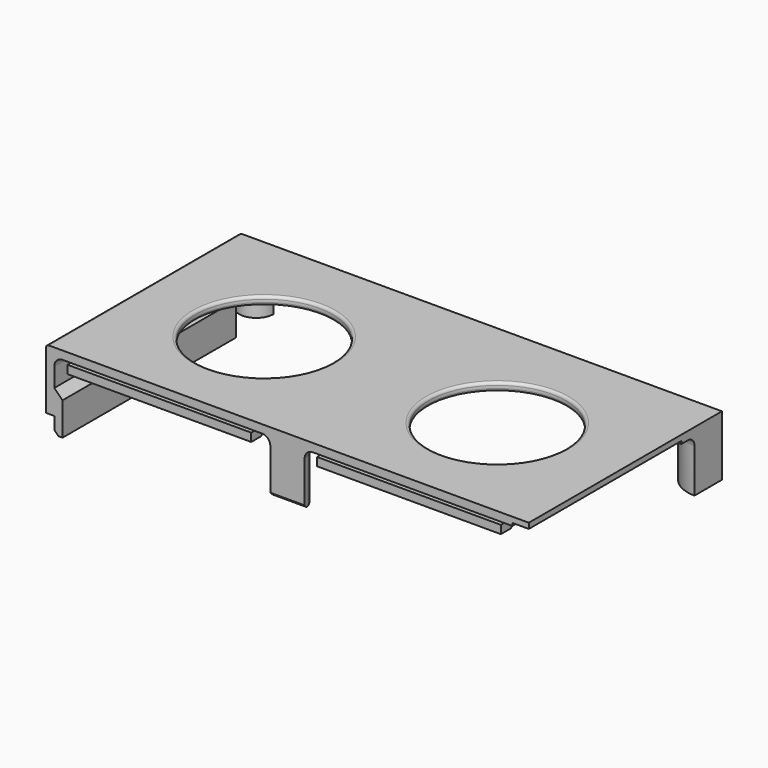
from build123d import *

# Parameters (mm, degrees)
SKETCH028_W          = 88
SKETCH028_H          = 3
PAD012_DEPTH         = 176
SKETCH029_R          = 25
POCKET015_DEPTH      = 100
POCKET015_DEPTH_BACK = 100
PAD014_DEPTH         = 19
SKETCH032_W          = 139
SKETCH032_H          = 6
SKETCH032_W_2        = 6
SKETCH032_H_2        = 69.5
POCKET016_DEPTH      = 20
SKETCH043_W          = 3
SKETCH043_H          = 88
PAD019_DEPTH         = 19
SKETCH044_W          = 3
SKETCH044_H          = 79
PAD020_DEPTH         = 6
PAD020_DEPTH_BACK    = 6
CHAMFER007_SIZE      = 2.99
CHAMFER008_SIZE      = 1.5
FILLET012_R          = 3
FILLET013_R          = 1
SKETCH086_W          = 67
SKETCH086_H          = 4.5
PAD037_DEPTH         = 3
CHAMFER011_SIZE      = 2.99
CHAMFER013_SIZE      = 1


with BuildPart() as part:
    # Sketch028 → Pad012 (new body)
    with BuildSketch(Plane.YZ):
        with Locations((-44, 20.5)):
            Rectangle(SKETCH028_W, SKETCH028_H)
    extrude(amount=-PAD012_DEPTH)

    # Sketch029 → Pocket015 (cut, two sides)
    with BuildSketch(Plane.XY) as pocket015_sk:
        with Locations((-130.5, -45.5)):
            Circle(SKETCH029_R)
        with Locations((-45.5, -45.5)):
            Circle(SKETCH029_R)
    extrude(amount=-POCKET015_DEPTH, mode=Mode.SUBTRACT)
    extrude(pocket015_sk.sketch, amount=POCKET015_DEPTH_BACK, mode=Mode.SUBTRACT)

    # Sketch031 → Pad014 (join)
    with BuildSketch(Plane.XY):
        with BuildLine():
            ThreePointArc((-12.5, 0), (-8.838835, -8.838835), (0, -12.5))
            Line((0, 0), (0, -12.5))
            Line((-12.5, 0), (0, 0))
        make_face()
        with BuildLine():
            ThreePointArc((-176, 0), (-169.75, -6.25), (-163.5, 0))
            Line((-176, 0), (-163.5, 0))
        make_face()
        with BuildLine():
            ThreePointArc((-81.75, -88), (-88, -81.75), (-94.25, -88))
            Line((-94.25, -88), (-81.75, -88))
        make_face()
    extrude(amount=PAD014_DEPTH)

    # Sketch032 → Pocket016 (cut)
    with BuildSketch(Plane.XY):
        with Locations((-88, -3)):
            Rectangle(SKETCH032_W, SKETCH032_H)
        with Locations((-3, -53.25)):
            Rectangle(SKETCH032_W_2, SKETCH032_H_2)
    extrude(amount=POCKET016_DEPTH, mode=Mode.SUBTRACT)

    # Sketch043 → Pad019 (join)
    with BuildSketch(Plane.XY):
        with Locations((-174.5, -44)):
            Rectangle(SKETCH043_W, SKETCH043_H)
    extrude(amount=PAD019_DEPTH)

    # Sketch044 → Pad020 (join, two sides)
    with BuildSketch(Plane.XY) as pad020_sk:
        with Locations((-171.5, -48.5)):
            Rectangle(SKETCH044_W, SKETCH044_H)
    extrude(amount=PAD020_DEPTH)
    extrude(pad020_sk.sketch, amount=-PAD020_DEPTH_BACK)

    # Chamfer007
    chamfer007_edges = [part.edges().sort_by_distance(p)[0] for p in [
        (-173, -48.5, 6),
    ]]
    chamfer(chamfer007_edges, length=CHAMFER007_SIZE)

    # Chamfer008
    chamfer008_edges = [part.edges().sort_by_distance(p)[0] for p in [
        (-173, -48.5, -6),
    ]]
    chamfer(chamfer008_edges, length=CHAMFER008_SIZE)

    # Fillet012
    fillet012_edges = [part.edges().sort_by_distance(p)[0] for p in [
        (-166.688138, -5.448624, 19),
        (-88, -81.75, 19),
        (-8.838835, -8.838835, 19),
        (-173, -46.66927, 19),
    ]]
    fillet(fillet012_edges, radius=FILLET012_R)

    # Fillet013
    fillet013_edges = [part.edges().sort_by_distance(p)[0] for p in [
        (-155.5, -45.5, 22),
        (-105.5, -45.5, 20.5),
        (-155.5, -45.5, 19),
        (-70.5, -45.5, 22),
        (-20.5, -45.5, 20.5),
        (-70.5, -45.5, 19),
        (-176, -44, 22),
    ]]
    fillet(fillet013_edges, radius=FILLET013_R)

    # Sketch086 → Pad037 (join)
    with BuildSketch(Plane.XY.offset(19)):
        with Locations((-133.5, -87.25)):
            Rectangle(SKETCH086_W, SKETCH086_H)
        with Locations((-42.5, -87.25)):
            Rectangle(SKETCH086_W, SKETCH086_H)
    extrude(amount=-PAD037_DEPTH)

    # Chamfer011
    chamfer011_edges = [part.edges().sort_by_distance(p)[0] for p in [
        (-133.5, -85, 19),
        (-42.5, -85, 19),
    ]]
    chamfer(chamfer011_edges, length=CHAMFER011_SIZE)

    # Chamfer013
    chamfer013_edges = [part.edges().sort_by_distance(p)[0] for p in [
        (-88, -88, 0),
    ]]
    chamfer(chamfer013_edges, length=CHAMFER013_SIZE)


solid = part.part
